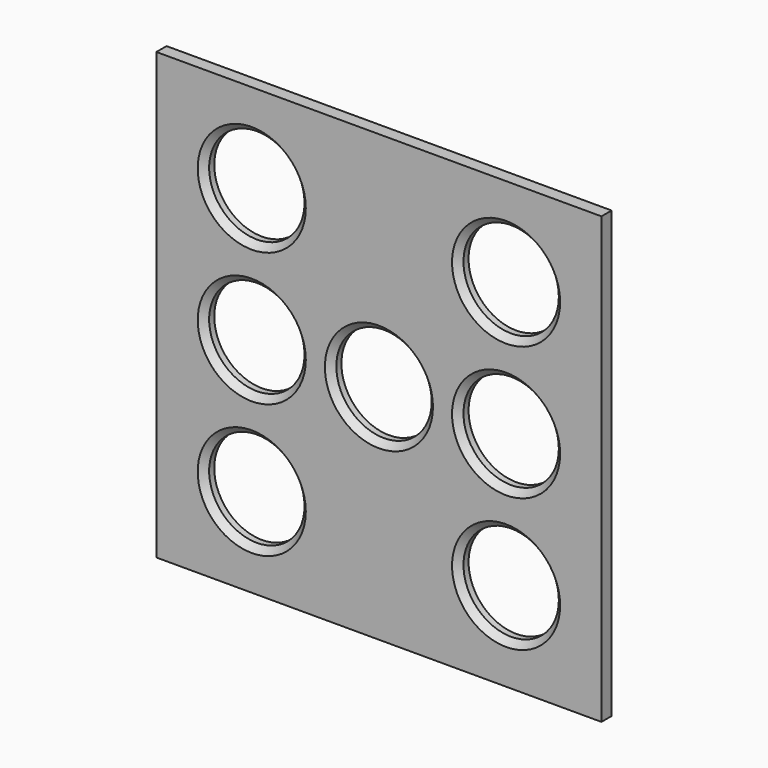
from build123d import *

# Parameters (mm, degrees)
F0_W     = 88.9
F0_H     = 88.9
F0_R     = 9.525
F1_DEPTH = 1.27
F2_SIZE  = 1.27


with BuildPart() as f1:
    # F0 (on Front) → F1 (new body, symmetric)
    with BuildSketch(Plane.XZ):
        Rectangle(F0_W, F0_H)
        with Locations((-25.4, -26.67)):
            Circle(F0_R, mode=Mode.SUBTRACT)
        with Locations((25.4, -26.67)):
            Circle(F0_R, mode=Mode.SUBTRACT)
        with Locations((-25.4, 0)):
            Circle(F0_R, mode=Mode.SUBTRACT)
        with Locations((-25.4, 26.67)):
            Circle(F0_R, mode=Mode.SUBTRACT)
        Circle(F0_R, mode=Mode.SUBTRACT)
        with Locations((25.4, 0)):
            Circle(F0_R, mode=Mode.SUBTRACT)
        with Locations((25.4, 26.67)):
            Circle(F0_R, mode=Mode.SUBTRACT)
    extrude(amount=F1_DEPTH, both=True)

    # F2
    f2_edges = [f1.edges().sort_by_distance(p)[0] for p in [
        (-34.925, -1.27, 26.67),
        (15.875, -1.27, 26.67),
        (-34.925, -1.27, 0),
        (-9.525, -1.27, 0),
        (15.875, -1.27, 0),
        (15.875, -1.27, -26.67),
        (-34.925, -1.27, -26.67),
    ]]
    chamfer(f2_edges, length=F2_SIZE)


solid = f1.part
